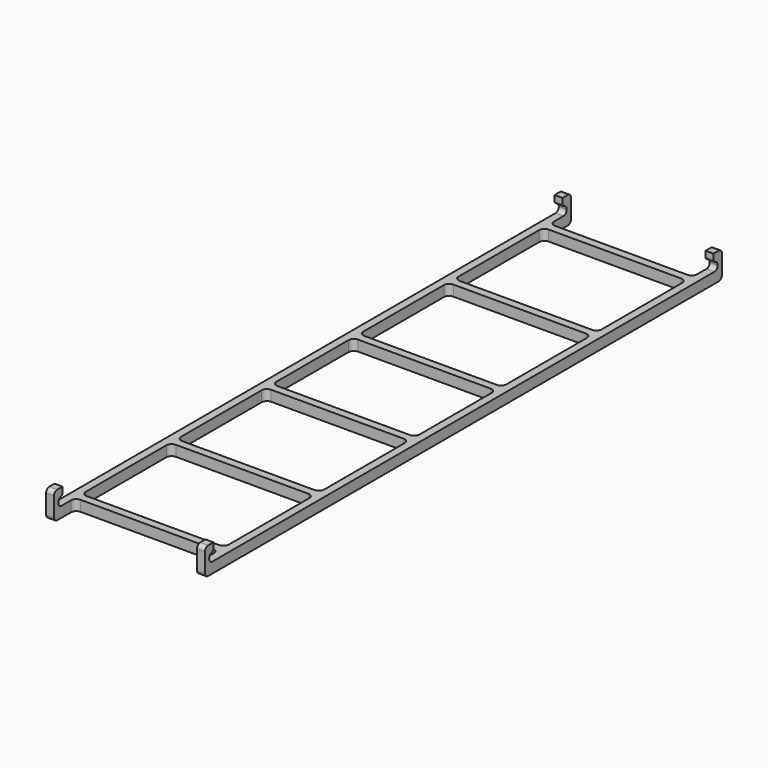
from build123d import *

# Parameters (mm, degrees)
F0_W     = 3
F0_H     = 4
F1_DEPTH = 122
F2_W     = 3
F2_H     = 4
F3_DEPTH = 54
F6_DEPTH = 3
F8_DEPTH = 3
F9_R     = 1.5
F10_R    = 1
F11_R    = 2


with BuildPart() as f1:
    # F0 (on Front) → F1 (new body)
    with BuildSketch(Plane.XZ):
        with Locations((-30, 2)):
            Rectangle(F0_W, F0_H)
    extrude(amount=F1_DEPTH)


with BuildPart() as f1b:
    # F0 (on Front) → F1, piece 2 (new body)
    with BuildSketch(Plane.XZ):
        with Locations((27, 2)):
            Rectangle(F0_W, F0_H)
    extrude(amount=F1_DEPTH)


with BuildPart() as f3:
    # F2 (on face) → F3 (new body, through all)
    with BuildSketch(Plane.YZ.offset(-28.5)):
        with Locations((-110.5, 2)):
            Rectangle(F2_W, F2_H)
    extrude(amount=F3_DEPTH)


with BuildPart() as f3b:
    # F2 (on face) → F3, piece 2 (new body, through all)
    with BuildSketch(Plane.YZ.offset(-28.5)):
        with Locations((-65.5, 2)):
            Rectangle(F2_W, F2_H)
    extrude(amount=F3_DEPTH)


with BuildPart() as f3c:
    # F2 (on face) → F3, piece 3 (new body, through all)
    with BuildSketch(Plane.YZ.offset(-28.5)):
        with Locations((-20.5, 2)):
            Rectangle(F2_W, F2_H)
    extrude(amount=F3_DEPTH)


with BuildPart() as f1_1:
    add(f1.part)

    # F4: union F1b, F3, F3b, F3c
    add(f1b.part)
    add(f3.part)
    add(f3b.part)
    add(f3c.part)

    # F5 (on face) → F6 (join, through all)
    with BuildSketch(Plane.YZ.offset(-28.5)):
        Polygon((-122, 7.2), (-122, 4), (-120, 4), (-120, 7.2), (-118, 7.2), (-118, 10.2), (-122, 10.2), align=None)
    extrude(amount=-F6_DEPTH)

    # F7 (on face) → F8 (join, through all)
    with BuildSketch(Plane.YZ.offset(28.5)):
        Polygon((-122, 7.2), (-122, 4), (-120, 4), (-120, 7.2), (-118, 7.2), (-118, 10.2), (-122, 10.2), align=None)
    extrude(amount=-F8_DEPTH)

    # F9
    f9_edges = [f1_1.edges().sort_by_distance(p)[0] for p in [
        (-30, -122, 0),
        (27, -122, 0),
        (27, -122, 10.2),
        (-30, -122, 10.2),
        (27, -120, 4),
        (27, -120, 7.2),
        (-30, -120, 4),
        (-30, -120, 7.2),
    ]]
    fillet(f9_edges, radius=F9_R)

    # F10
    f10_edges = [f1_1.edges().sort_by_distance(p)[0] for p in [
        (-30, -118, 7.2),
        (27, -118, 7.2),
    ]]
    fillet(f10_edges, radius=F10_R)

    # F11
    f11_edges = [f1_1.edges().sort_by_distance(p)[0] for p in [
        (-28.5, -109, 2),
        (-28.5, -64, 2),
        (25.5, -109, 2),
        (25.5, -22, 2),
        (25.5, -67, 2),
        (-28.5, -67, 2),
        (-28.5, -22, 2),
        (-28.5, -19, 2),
        (-28.5, -112, 2),
        (25.5, -112, 2),
        (25.5, -64, 2),
        (25.5, -19, 2),
    ]]
    fillet(f11_edges, radius=F11_R)

    # F12: F1 across plane


with BuildPart() as f1_2:
    add(f1_1.part)
    add(f1_1.part.mirror(Plane.XZ))


solid = f1_2.part
